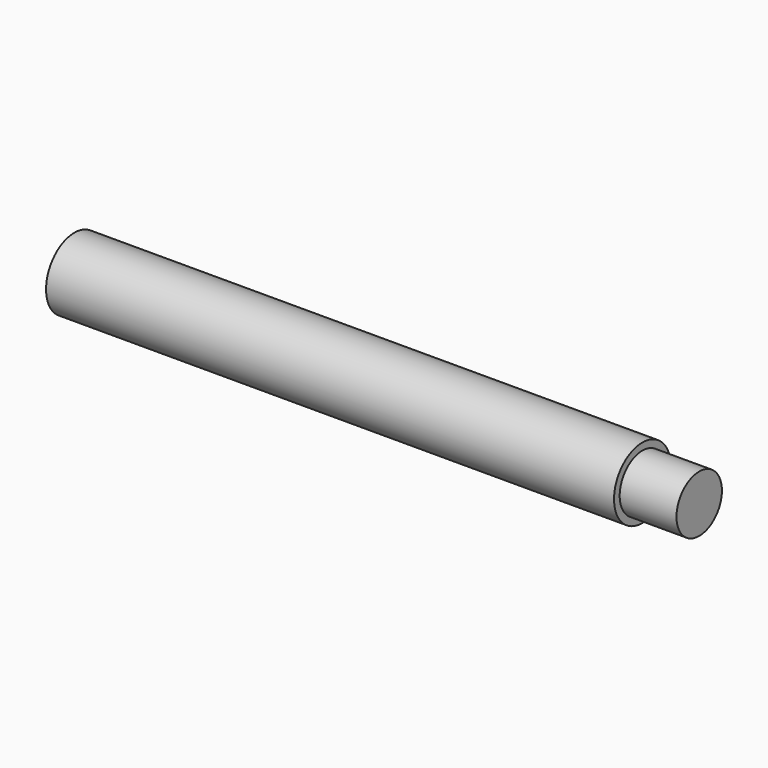
from build123d import *

# Parameters (mm, degrees)
F0_R     = 5
F1_DEPTH = 40
F2_R     = 4
F3_DEPTH = 8


with BuildPart() as f1:
    # F0 (on Right) → F1 (new body, symmetric)
    with BuildSketch(Plane.YZ):
        Circle(F0_R)
    extrude(amount=F1_DEPTH, both=True)

    # F2 (on face) → F3 (join)
    with BuildSketch(Plane.YZ.offset(40)):
        Circle(F2_R)
    extrude(amount=F3_DEPTH)


solid = f1.part
